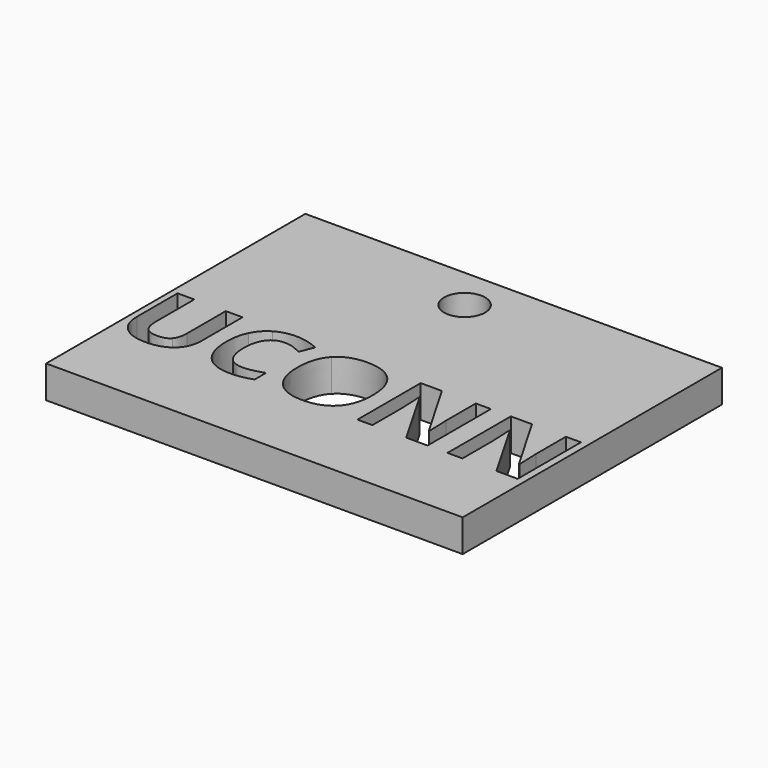
from build123d import *

# Parameters (mm, degrees)
F0_W     = 45
F0_H     = 35
F0_R     = 2.2182693531
F1_DEPTH = 3.5


with BuildPart() as f1:
    # F0 (on Top) → F1 (new body)
    with BuildSketch(Plane.XY):
        with Locations((-22.5, 17.5)):
            Rectangle(F0_W, F0_H)
        with BuildLine():
            Line((-39.1418465407, 16.9395460091), (-37.3351271333, 16.9395460091))
            Line((-37.3351271333, 16.9395460091), (-37.3351271333, 11.41090981))
            add(Edge.make_bspline(
                [(-37.3351271333, 11.41090981), (-37.3351271333, 10.4626626676), (-37.7587523359, 9.7500745783)],
                knots=[0, 0, 0, 1, 1, 1], degree=2))
            add(Edge.make_bspline(
                [(-37.7587523359, 9.7500745783), (-38.1823775386, 9.0374864891), (-38.9838053503, 8.6568784152)],
                knots=[0, 0, 0, 1, 1, 1], degree=2))
            add(Edge.make_bspline(
                [(-38.9838053503, 8.6568784152), (-39.785233162, 8.2762703412), (-40.8774941702, 8.2762703412)],
                knots=[0, 0, 0, 1, 1, 1], degree=2))
            add(Edge.make_bspline(
                [(-40.8774941702, 8.2762703412), (-42.5252372322, 8.2762703412), (-43.4370133307, 9.1216504366)],
                knots=[0, 0, 0, 1, 1, 1], degree=2))
            add(Edge.make_bspline(
                [(-43.4370133307, 9.1216504366), (-44.3487894291, 9.967030532), (-44.3487894291, 11.4333535293)],
                knots=[0, 0, 0, 1, 1, 1], degree=2))
            Line((-44.3487894291, 11.4333535293), (-44.3487894291, 16.9395460091))
            Line((-44.3487894291, 16.9395460091), (-42.5439403317, 16.9395460091))
            Line((-42.5439403317, 16.9395460091), (-42.5439403317, 11.7082890913))
            add(Edge.make_bspline(
                [(-42.5439403317, 11.7082890913), (-42.5439403317, 10.7207654401), (-42.1464994682, 10.2587988835)],
                knots=[0, 0, 0, 1, 1, 1], degree=2))
            add(Edge.make_bspline(
                [(-42.1464994682, 10.2587988835), (-41.7490586048, 9.796832327), (-40.8307364215, 9.796832327)],
                knots=[0, 0, 0, 1, 1, 1], degree=2))
            add(Edge.make_bspline(
                [(-40.8307364215, 9.796832327), (-39.9423391974, 9.796832327), (-39.542092869, 10.2616043485)],
                knots=[0, 0, 0, 1, 1, 1], degree=2))
            add(Edge.make_bspline(
                [(-39.542092869, 10.2616043485), (-39.1418465407, 10.7263763699), (-39.1418465407, 11.719510951)],
                knots=[0, 0, 0, 1, 1, 1], degree=2))
            Line((-39.1418465407, 11.719510951), (-39.1418465407, 16.9395460091))
        make_face(mode=Mode.SUBTRACT)
        with BuildLine():
            add(Edge.make_bspline(
                [(-30.6599909376, 15.3843832893), (-31.1444012135, 15.5536463394), (-31.6119786999, 15.5536463394)],
                knots=[0, 0, 0, 1, 1, 1], degree=2))
            add(Edge.make_bspline(
                [(-31.6119786999, 15.5536463394), (-32.6350382401, 15.5536463394), (-33.1961312237, 14.7849489518)],
                knots=[0, 0, 0, 1, 1, 1], degree=2))
            add(Edge.make_bspline(
                [(-33.1961312237, 14.7849489518), (-33.7572242074, 14.0162515642), (-33.7572242074, 12.6434440641)],
                knots=[0, 0, 0, 1, 1, 1], degree=2))
            add(Edge.make_bspline(
                [(-33.7572242074, 12.6434440641), (-33.7572242074, 9.7856104673), (-31.6119786999, 9.7856104673)],
                knots=[0, 0, 0, 1, 1, 1], degree=2))
            add(Edge.make_bspline(
                [(-31.6119786999, 9.7856104673), (-30.712359616, 9.7856104673), (-29.4330676133, 10.2344848542)],
                knots=[0, 0, 0, 1, 1, 1], degree=2))
            Line((-29.4330676133, 10.2344848542), (-29.4330676133, 8.7157931784))
            add(Edge.make_bspline(
                [(-29.4330676133, 8.7157931784), (-30.4841818027, 8.2762703412), (-31.7821769049, 8.2762703412)],
                knots=[0, 0, 0, 1, 1, 1], degree=2))
            add(Edge.make_bspline(
                [(-31.7821769049, 8.2762703412), (-33.6468759206, 8.2762703412), (-34.6343995719, 9.4078078583)],
                knots=[0, 0, 0, 1, 1, 1], degree=2))
            add(Edge.make_bspline(
                [(-34.6343995719, 9.4078078583), (-35.6219232231, 10.5393453754), (-35.6219232231, 12.6546659238)],
                knots=[0, 0, 0, 1, 1, 1], degree=2))
            add(Edge.make_bspline(
                [(-35.6219232231, 12.6546659238), (-35.6219232231, 13.988196915), (-35.1365777923, 14.9906830458)],
                knots=[0, 0, 0, 1, 1, 1], degree=2))
            add(Edge.make_bspline(
                [(-35.1365777923, 14.9906830458), (-34.6512323614, 15.9931691766), (-33.7422617278, 16.5271426661)],
                knots=[0, 0, 0, 1, 1, 1], degree=2))
            add(Edge.make_bspline(
                [(-33.7422617278, 16.5271426661), (-32.8332910943, 17.0611161555), (-31.6119786999, 17.0611161555)],
                knots=[0, 0, 0, 1, 1, 1], degree=2))
            add(Edge.make_bspline(
                [(-31.6119786999, 17.0611161555), (-30.3682225861, 17.0611161555), (-29.1113743026, 16.460746663)],
                knots=[0, 0, 0, 1, 1, 1], degree=2))
            Line((-29.1113743026, 16.460746663), (-29.6949110057, 14.9869424259))
            add(Edge.make_bspline(
                [(-29.6949110057, 14.9869424259), (-30.1755806617, 15.2151202393), (-30.6599909376, 15.3843832893)],
                knots=[0, 0, 0, 1, 1, 1], degree=2))
        make_face(mode=Mode.SUBTRACT)
        with BuildLine():
            add(Edge.make_bspline(
                [(-20.9025839516, 15.9398653432), (-19.858951002, 14.8055223612), (-19.858951002, 12.6789799531)],
                knots=[0, 0, 0, 1, 1, 1], degree=2))
            add(Edge.make_bspline(
                [(-19.858951002, 12.6789799531), (-19.858951002, 10.5561781649), (-20.9110003463, 9.4162242531)],
                knots=[0, 0, 0, 1, 1, 1], degree=2))
            add(Edge.make_bspline(
                [(-20.9110003463, 9.4162242531), (-21.9630496907, 8.2762703412), (-23.9268751335, 8.2762703412)],
                knots=[0, 0, 0, 1, 1, 1], degree=2))
            add(Edge.make_bspline(
                [(-23.9268751335, 8.2762703412), (-25.8907005764, 8.2762703412), (-26.9427499208, 9.4162242531)],
                knots=[0, 0, 0, 1, 1, 1], degree=2))
            add(Edge.make_bspline(
                [(-26.9427499208, 9.4162242531), (-27.9947992651, 10.5561781649), (-27.9947992651, 12.6902018128)],
                knots=[0, 0, 0, 1, 1, 1], degree=2))
            add(Edge.make_bspline(
                [(-27.9947992651, 12.6902018128), (-27.9947992651, 14.8242254606), (-26.9399444558, 15.9492168929)],
                knots=[0, 0, 0, 1, 1, 1], degree=2))
            add(Edge.make_bspline(
                [(-26.9399444558, 15.9492168929), (-25.8850896466, 17.0742083252), (-23.9156532739, 17.0742083252)],
                knots=[0, 0, 0, 1, 1, 1], degree=2))
            add(Edge.make_bspline(
                [(-23.9156532739, 17.0742083252), (-21.9462169012, 17.0742083252), (-20.9025839516, 15.9398653432)],
                knots=[0, 0, 0, 1, 1, 1], degree=2))
        make_face(mode=Mode.SUBTRACT)
        with BuildLine():
            Line((-10.5074012742, 16.9395460091), (-10.5074012742, 8.3940998678))
            Line((-10.5074012742, 8.3940998678), (-12.8097528171, 8.3940998678))
            Line((-12.8097528171, 8.3940998678), (-16.5279289889, 14.8578910397))
            Line((-16.5279289889, 14.8578910397), (-16.5802976674, 14.8578910397))
            add(Edge.make_bspline(
                [(-16.5802976674, 14.8578910397), (-16.4680790707, 13.1465574395), (-16.4680790707, 12.4152662508)],
                knots=[0, 0, 0, 1, 1, 1], degree=2))
            Line((-16.4680790707, 12.4152662508), (-16.4680790707, 8.3940998678))
            Line((-16.4680790707, 8.3940998678), (-18.0877674835, 8.3940998678))
            Line((-18.0877674835, 8.3940998678), (-18.0877674835, 16.9395460091))
            Line((-18.0877674835, 16.9395460091), (-15.80224873, 16.9395460091))
            Line((-15.80224873, 16.9395460091), (-12.091553798, 10.5393453754))
            Line((-12.091553798, 10.5393453754), (-12.0504069792, 10.5393453754))
            add(Edge.make_bspline(
                [(-12.0504069792, 10.5393453754), (-12.1383115467, 12.2057915369), (-12.1383115467, 12.8940655968)],
                knots=[0, 0, 0, 1, 1, 1], degree=2))
            Line((-12.1383115467, 12.8940655968), (-12.1383115467, 16.9395460091))
            Line((-12.1383115467, 16.9395460091), (-10.5074012742, 16.9395460091))
        make_face(mode=Mode.SUBTRACT)
        with BuildLine():
            Line((-0.7761786274, 16.9395460091), (-0.7761786274, 8.3940998678))
            Line((-0.7761786274, 8.3940998678), (-3.0785301704, 8.3940998678))
            Line((-3.0785301704, 8.3940998678), (-6.7967063422, 14.8578910397))
            Line((-6.7967063422, 14.8578910397), (-6.8490750206, 14.8578910397))
            add(Edge.make_bspline(
                [(-6.8490750206, 14.8578910397), (-6.7368564239, 13.1465574395), (-6.7368564239, 12.4152662508)],
                knots=[0, 0, 0, 1, 1, 1], degree=2))
            Line((-6.7368564239, 12.4152662508), (-6.7368564239, 8.3940998678))
            Line((-6.7368564239, 8.3940998678), (-8.3565448368, 8.3940998678))
            Line((-8.3565448368, 8.3940998678), (-8.3565448368, 16.9395460091))
            Line((-8.3565448368, 16.9395460091), (-6.0710260833, 16.9395460091))
            Line((-6.0710260833, 16.9395460091), (-2.3603311513, 10.5393453754))
            Line((-2.3603311513, 10.5393453754), (-2.3191843325, 10.5393453754))
            add(Edge.make_bspline(
                [(-2.3191843325, 10.5393453754), (-2.4070888999, 12.2057915369), (-2.4070888999, 12.8940655968)],
                knots=[0, 0, 0, 1, 1, 1], degree=2))
            Line((-2.4070888999, 12.8940655968), (-2.4070888999, 16.9395460091))
            Line((-2.4070888999, 16.9395460091), (-0.7761786274, 16.9395460091))
        make_face(mode=Mode.SUBTRACT)
        with Locations((-24.1070296615, 30.3892251104)):
            Circle(F0_R, mode=Mode.SUBTRACT)
    extrude(amount=F1_DEPTH)


solid = f1.part
